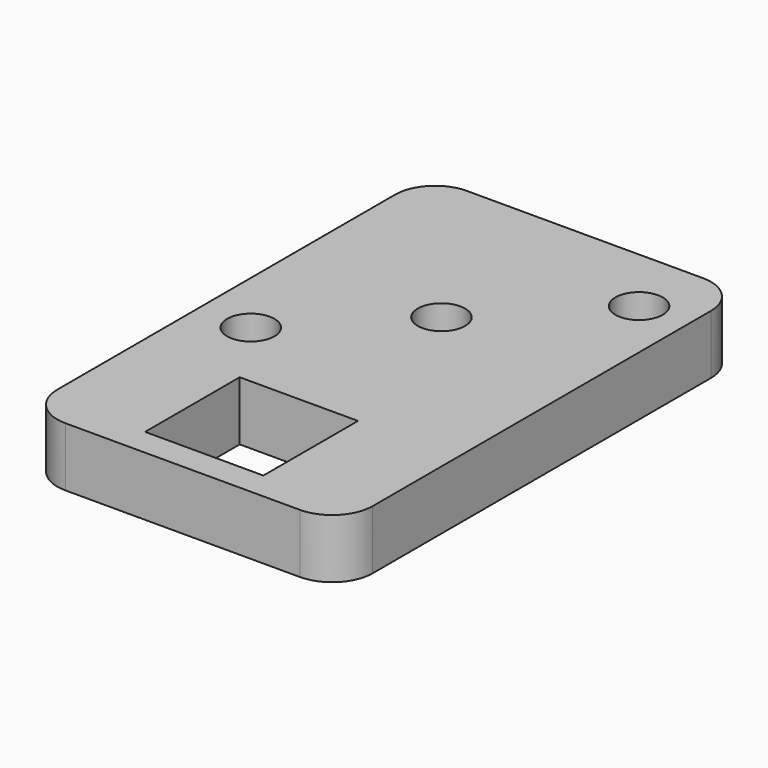
from build123d import *

# Parameters (mm, degrees)
SKETCH_R     = 12
SKETCH_W     = 60
SKETCH_H     = 60
PAD_DEPTH    = 30
PAD001_DEPTH = 30


with BuildPart() as part:
    # Sketch → Pad (new body)
    with BuildSketch(Plane.XY):
        with BuildLine():
            Line((-59.342312, -134.143673), (59.515305, -134.143673))
            ThreePointArc((59.515305, -134.143673), (74.047401, -128.124281), (80.066793, -113.592185))
            Line((80.066793, -113.592185), (80.066793, 100.872214))
            ThreePointArc((80.066793, 100.872214), (74.213582, 115.003116), (60.08268, 120.856327))
            Line((60.08268, 120.856327), (-59.689381, 120.856327))
            ThreePointArc((-59.689381, 120.856327), (-74.003928, 114.927048), (-79.933207, 100.612501))
            Line((-79.933207, 100.612501), (-79.933207, -113.552778))
            ThreePointArc((-79.933207, -113.552778), (-73.902274, -128.112739), (-59.342312, -134.143673))
        make_face()
        with Locations((0.120778, 29.919195)):
            Circle(SKETCH_R, mode=Mode.SUBTRACT)
        with Locations((-53.325886, -24.171413)):
            Circle(SKETCH_R, mode=Mode.SUBTRACT)
        with Locations((55.271923, 86.295181)):
            Circle(SKETCH_R, mode=Mode.SUBTRACT)
        with Locations((-0.129082, -90.192567)):
            Rectangle(SKETCH_W, SKETCH_H, mode=Mode.SUBTRACT)
    extrude(amount=PAD_DEPTH)

    # Sketch → Pad001 (join)
    with BuildSketch(Plane.XY):
        with BuildLine():
            Line((-59.342312, -134.143673), (59.515305, -134.143673))
            ThreePointArc((59.515305, -134.143673), (74.047401, -128.124281), (80.066793, -113.592185))
            Line((80.066793, -113.592185), (80.066793, 100.872214))
            ThreePointArc((80.066793, 100.872214), (74.213582, 115.003116), (60.08268, 120.856327))
            Line((60.08268, 120.856327), (-59.689381, 120.856327))
            ThreePointArc((-59.689381, 120.856327), (-74.003928, 114.927048), (-79.933207, 100.612501))
            Line((-79.933207, 100.612501), (-79.933207, -113.552778))
            ThreePointArc((-79.933207, -113.552778), (-73.902274, -128.112739), (-59.342312, -134.143673))
        make_face()
        with Locations((0.120778, 29.919195)):
            Circle(SKETCH_R, mode=Mode.SUBTRACT)
        with Locations((-53.325886, -24.171413)):
            Circle(SKETCH_R, mode=Mode.SUBTRACT)
        with Locations((55.271923, 86.295181)):
            Circle(SKETCH_R, mode=Mode.SUBTRACT)
        with Locations((-0.129082, -90.192567)):
            Rectangle(SKETCH_W, SKETCH_H, mode=Mode.SUBTRACT)
    extrude(amount=PAD001_DEPTH)


solid = part.part
